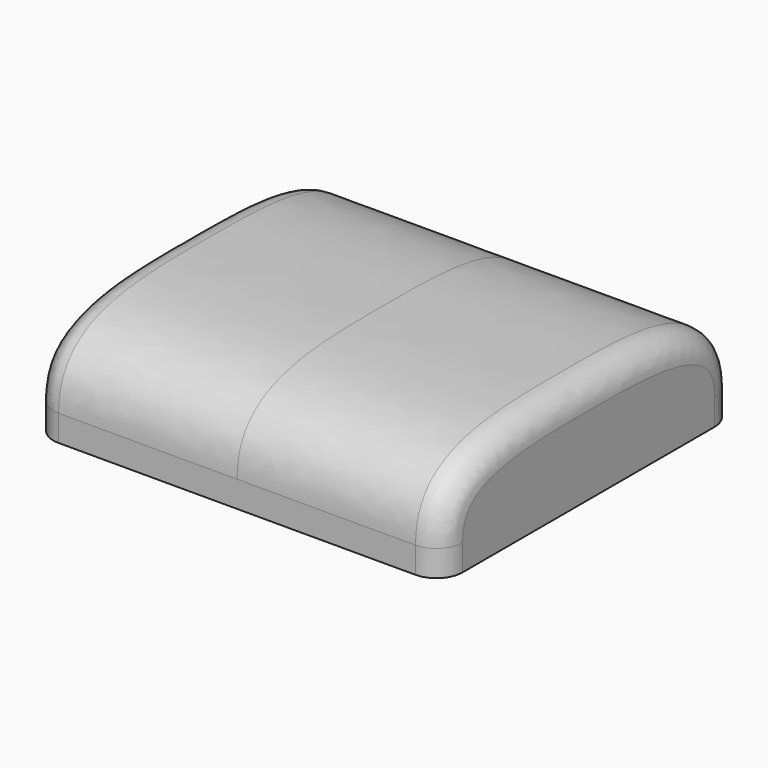
from build123d import *

# Parameters (mm, degrees)
PAD014_DEPTH               = 38.3
FILLET001_R                = 5
PAD013_DEPTH               = 39.1
FILLET_R                   = 5
SKETCH037_W                = 78.2
SKETCH037_H                = 70.2
SKETCH037_W_2              = 76.6
SKETCH037_H_2              = 68.6
PAD015_DEPTH               = 5
SKETCH038_R                = 1.4
PAD016_DEPTH               = 20
SKETCH038_MIRRORED024_2_R  = 1.4
PAD016_MIRRORED024_2_DEPTH = 20


with BuildPart() as lightcoverinner:
    # Sketch036 → Pad014 (new body, symmetric)
    with BuildSketch(Plane.YZ):
        with BuildLine():
            Line((-34.3, 5), (-34.3, 0))
            Line((-34.3, 0), (34.3, 0))
            Line((34.3, 0), (34.3, 5))
            add(Edge.make_bspline(
                [(-34.3, 5), (-34.3, 19.2), (0, 19.2), (34.3, 19.2), (34.3, 5)],
                knots=[0, 0, 0, 0, 0.5, 1, 1, 1, 1], degree=3))
        make_face()
    extrude(amount=PAD014_DEPTH, both=True)

    # Fillet001
    fillet001_edges = [lightcoverinner.edges().sort_by_distance(p)[0] for p in [
        (38.3, 0, 19.2),
        (-38.3, 0, 19.2),
    ]]
    fillet(fillet001_edges, radius=FILLET001_R)


with BuildPart() as lightcoverinner_1:
    # Body008 placement: moved
    add(lightcoverinner.part.moved(Location((0, 0, 1))))


with BuildPart() as cut:
    # Sketch035 → Pad013 (new body, symmetric)
    with BuildSketch(Plane.YZ):
        with BuildLine():
            Line((-35.1, 5), (-35.1, 0))
            Line((-35.1, 0), (35.1, 0))
            Line((35.1, 0), (35.1, 5))
            add(Edge.make_bspline(
                [(-35.1, 5), (-35.1, 20), (0, 20), (35.1, 20), (35.1, 5)],
                knots=[0, 0, 0, 0, 0.5, 1, 1, 1, 1], degree=3))
        make_face()
    extrude(amount=PAD013_DEPTH, both=True)

    # Fillet
    fillet_edges = [cut.edges().sort_by_distance(p)[0] for p in [
        (39.1, 0, 20),
        (-39.1, 0, 20),
    ]]
    fillet(fillet_edges, radius=FILLET_R)


with BuildPart() as cut_1:
    # Body007 placement: moved
    add(cut.part.moved(Location((0, 0, 1))))

    # Cut: cut LightCoverInner
    add(lightcoverinner_1.part, mode=Mode.SUBTRACT)


with BuildPart() as lightcoverinnercut:
    # Body009 base: copy of LightCoverInner
    add(lightcoverinner_1.part)


with BuildPart() as lightcover:
    # Sketch037 → Pad015 (new body)
    with BuildSketch(Plane.XY):
        Rectangle(SKETCH037_W, SKETCH037_H)
        Rectangle(SKETCH037_W_2, SKETCH037_H_2, mode=Mode.SUBTRACT)
    extrude(amount=PAD015_DEPTH)

    # Sketch038 → Pad016 (join)
    with BuildSketch(Plane.XY):
        with BuildLine():
            ThreePointArc((-34.1, 26.9), (-31.837258, 27.837258), (-30.9, 30.1))
            Line((-30.9, 30.1), (-30.9, 34.3))
            Line((-30.9, 34.3), (-38.3, 34.3))
            Line((-38.3, 34.3), (-38.3, 26.9))
            Line((-38.3, 26.9), (-34.1, 26.9))
        make_face()
        with Locations((-34.1, 30.1)):
            Circle(SKETCH038_R, mode=Mode.SUBTRACT)
    pad016 = extrude(amount=PAD016_DEPTH)

    # Sketch038 Mirrored024 2 → Pad016 Mirrored024 2 (add)
    with BuildSketch(Plane(origin=(0, 0, 0), x_dir=(-1, 0, 0), z_dir=(0, 0, -1))):
        with BuildLine():
            ThreePointArc((-34.1, 26.9), (-31.837258, 27.837258), (-30.9, 30.1))
            Line((-30.9, 30.1), (-30.9, 34.3))
            Line((-30.9, 34.3), (-38.3, 34.3))
            Line((-38.3, 34.3), (-38.3, 26.9))
            Line((-38.3, 26.9), (-34.1, 26.9))
        make_face()
        with Locations((-34.1, 30.1)):
            Circle(SKETCH038_MIRRORED024_2_R, mode=Mode.SUBTRACT)
    pad016_mirrored024_2 = extrude(amount=-PAD016_MIRRORED024_2_DEPTH)

    # Mirrored025: Pad016, Pad016 Mirrored024 2 across Sketch038 H_Axis
    add(pad016.mirror(Plane.ZX))
    add(pad016_mirrored024_2.mirror(Plane.ZX))

    # Common: intersect LightCoverInnerCut
    add(lightcoverinnercut.part, mode=Mode.INTERSECT)

    # Fusion: union Cut
    add(cut_1.part)


solid = lightcover.part
